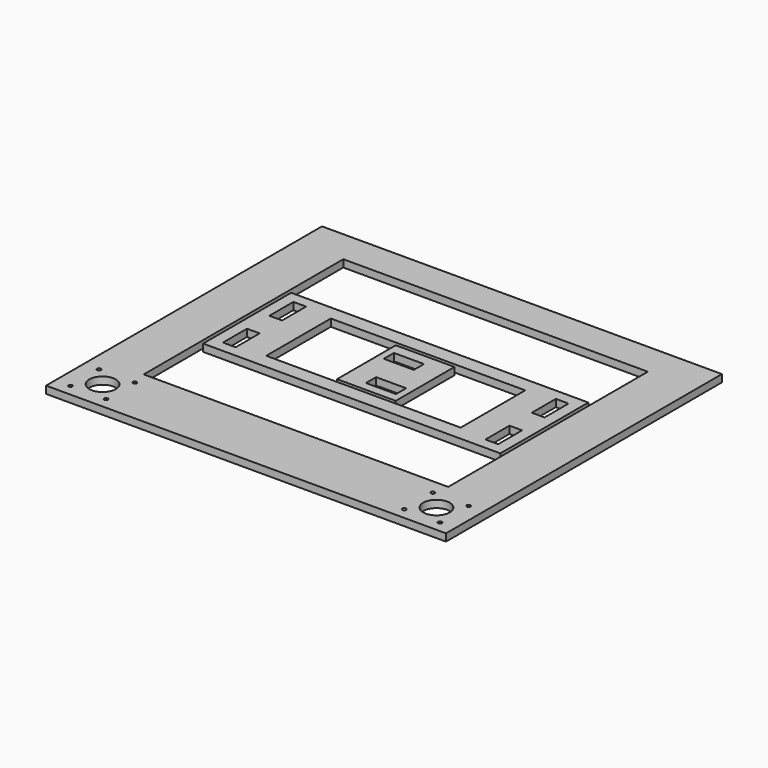
from build123d import *

# Parameters (mm, degrees)
F0_W     = 257.175
F0_H     = 95.25
F0_W_2   = 168.275
F0_H_2   = 69.85
F1_DEPTH = 6.35
F0_W_3   = 50.8
F0_H_3   = 63.5
F2_DEPTH = 6.35
F0_W_4   = 346.075
F0_H_4   = 273.05
F0_W_5   = 263.525
F0_H_5   = 215.9
F0_H_6   = 25.4
F3_DEPTH = 6.35
F4_R     = 11.43
F5_DEPTH = 25.4
F6_D     = 3.3
F7_W     = 11
F7_H     = 26
F7_W_2   = 26.0096
F7_H_2   = 11
F8_DEPTH = 25.4


with BuildPart() as f1:
    # F0 (on Top) → F1 (new body)
    with BuildSketch(Plane.XY):
        Rectangle(F0_W, F0_H)
        Rectangle(F0_W_2, F0_H_2, mode=Mode.SUBTRACT)
    extrude(amount=F1_DEPTH)


with BuildPart() as f2:
    # F0 (on Top) → F2 (new body)
    with BuildSketch(Plane.XY):
        Rectangle(F0_W_3, F0_H_3)
    extrude(amount=F2_DEPTH)


with BuildPart() as f3:
    # F0 (on Top) → F3 (new body)
    with BuildSketch(Plane.XY):
        Rectangle(F0_W_4, F0_H_4)
        Rectangle(F0_W_5, F0_H_5, mode=Mode.SUBTRACT)
        with Locations((0, -149.225)):
            Rectangle(F0_W_4, F0_H_6)
    extrude(amount=F3_DEPTH)

    # F4 (on face) → F5 (cut)
    with BuildSketch(Plane.XY.offset(6.35)):
        with Locations((-144.4625, -136.525)):
            Circle(F4_R)
        with Locations((144.4625, -136.525)):
            Circle(F4_R)
    extrude(amount=-F5_DEPTH, mode=Mode.SUBTRACT)

    # F6 (through all)
    with Locations(Plane.XY.offset(6.35)):
        with Locations((-159.9565, -121.025), (-128.9625, -121.031), (-128.9685, -152.025), (-159.9625, -152.019), (128.9625, -121.031), (159.9565, -121.025), (128.9685, -152.025), (159.9625, -152.019)):
            Hole(F6_D / 2)


with BuildPart() as f8_tool:
    # F7 (on face) → F8 (new body)
    with BuildSketch(Plane.XY.offset(6.35)):
        with Locations((-113.5625, -25.1)):
            Rectangle(F7_W, F7_H)
        with Locations((-113.5625, 25.1)):
            Rectangle(F7_W, F7_H)
        with Locations((-6.35, 16.725)):
            Rectangle(F7_W_2, F7_H_2)
        with Locations((113.5625, -25.1)):
            Rectangle(F7_W, F7_H)
        with Locations((113.5625, 25.1)):
            Rectangle(F7_W, F7_H)
        with Locations((6.35, -18.4449124783)):
            Rectangle(F7_W_2, F7_H_2)
    extrude(amount=-F8_DEPTH)


with BuildPart() as f1_1:
    add(f1.part)

    # F8: cut by f8_tool
    add(f8_tool.part, mode=Mode.SUBTRACT)


with BuildPart() as f2_1:
    add(f2.part)

    # F8: cut by f8_tool
    add(f8_tool.part, mode=Mode.SUBTRACT)


solid = Compound([f3.part, f1_1.part, f2_1.part])
